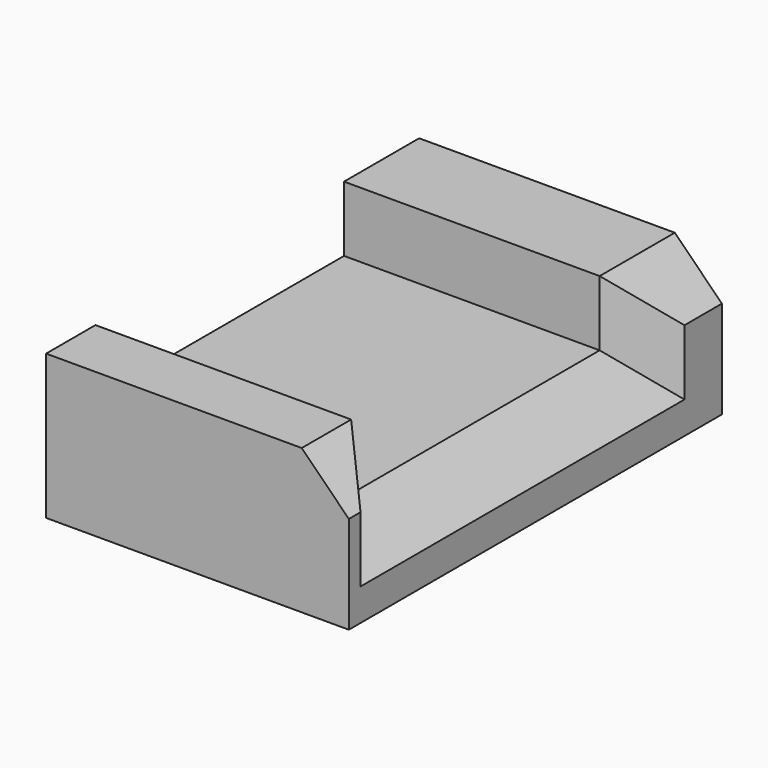
from build123d import *

# Parameters (mm, degrees)
F1_DEPTH = 163.230464
F2_SIZE  = 25.4


with BuildPart() as f1:
    # F0 (on Right) → F1 (new body)
    with BuildSketch(Plane.YZ):
        Polygon((-81.034228, -87.784111), (-81.034228, -52.52336), (-114.317387, -52.52336), (-114.317387, -130.513579), (137.106746, -130.513579), (137.106746, -52.52336), (86.470395, -52.52336), (86.470395, -87.784111), align=None)
    extrude(amount=F1_DEPTH)

    # F2
    f2_edges = [f1.edges().sort_by_distance(p)[0] for p in [
        (163.230464, 2.718084, -87.784111),
        (163.230464, -81.034228, -70.153736),
        (163.230464, 86.470395, -70.153736),
        (163.230464, 111.788571, -52.52336),
        (163.230464, -97.675808, -52.52336),
    ]]
    chamfer(f2_edges, length=F2_SIZE)


solid = f1.part
